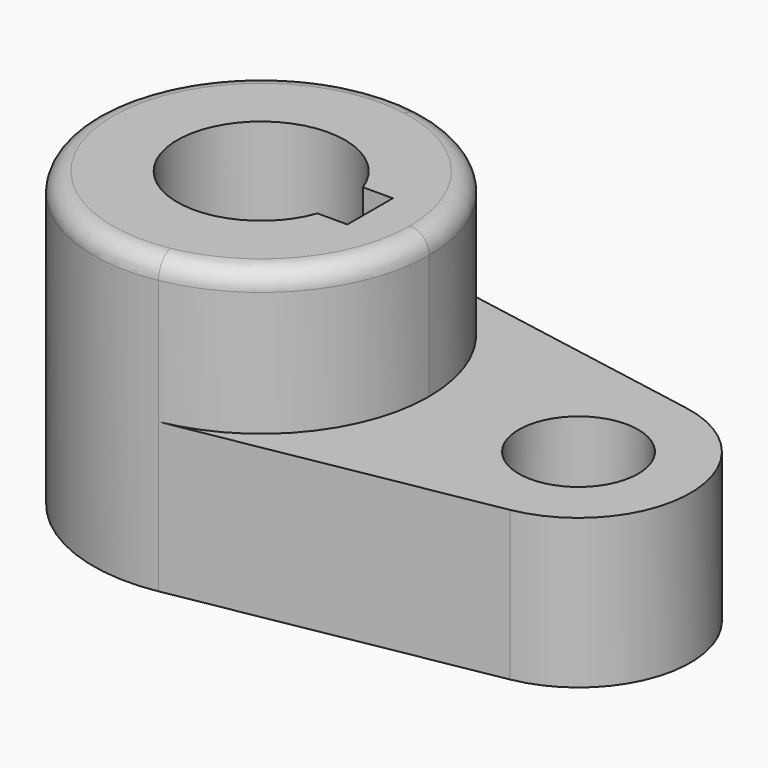
from build123d import *

# Parameters (mm, degrees)
F0_R     = 10.16
F1_DEPTH = 25.4
F3_DEPTH = 24.4602
F4_R     = 3.302


with BuildPart() as f1:
    # F0 (on Top) → F1 (new body)
    with BuildSketch(Plane.XY):
        with BuildLine():
            ThreePointArc((5.042647, 28.126541), (21.916025, 18.336262), (28.575, 0))
            ThreePointArc((28.575, 0), (21.916025, -18.336261), (5.042648, -28.126541))
            Line((5.042648, -28.126541), (57.336765, -18.751028))
            ThreePointArc((57.336765, -18.751028), (73.025, 0), (57.336765, 18.751028))
            Line((57.336765, 18.751028), (5.042647, 28.126541))
        make_face()
        with Locations((53.975, 0)):
            Circle(F0_R, mode=Mode.SUBTRACT)
        with BuildLine():
            ThreePointArc((5.042648, -28.126541), (21.916025, -18.336261), (28.575, 0))
            ThreePointArc((28.575, 0), (21.916025, 18.336262), (5.042647, 28.126541))
            ThreePointArc((5.042647, 28.126541), (-28.575, 0), (5.042648, -28.126541))
        make_face()
        with BuildLine():
            ThreePointArc((13.447765, -4.826), (-14.2875, 0), (13.447765, 4.826))
            Line((13.447765, 4.826), (18.5293, 4.826))
            Line((18.5293, 4.826), (18.5293, 0))
            Line((18.5293, 0), (18.5293, -4.826))
            Line((18.5293, -4.826), (13.447765, -4.826))
        make_face(mode=Mode.SUBTRACT)
    extrude(amount=F1_DEPTH)

    # F2 (on face) → F3 (join)
    with BuildSketch(Plane.XY.offset(25.4)):
        with BuildLine():
            ThreePointArc((5.042648, -28.126541), (21.916025, -18.336261), (28.575, 0))
            ThreePointArc((28.575, 0), (21.916025, 18.336262), (5.042647, 28.126541))
            ThreePointArc((5.042647, 28.126541), (-28.575, 0), (5.042648, -28.126541))
        make_face()
        with BuildLine():
            ThreePointArc((13.447765, -4.826), (-14.2875, 0), (13.447765, 4.826))
            Line((13.447765, 4.826), (18.5293, 4.826))
            Line((18.5293, 4.826), (18.5293, -4.826))
            Line((18.5293, -4.826), (13.447765, -4.826))
        make_face(mode=Mode.SUBTRACT)
    extrude(amount=F3_DEPTH)

    # F4
    f4_edges = [f1.edges().sort_by_distance(p)[0] for p in [
        (-5.042648, 28.126541, 49.8602),
    ]]
    fillet(f4_edges, radius=F4_R)


solid = f1.part
